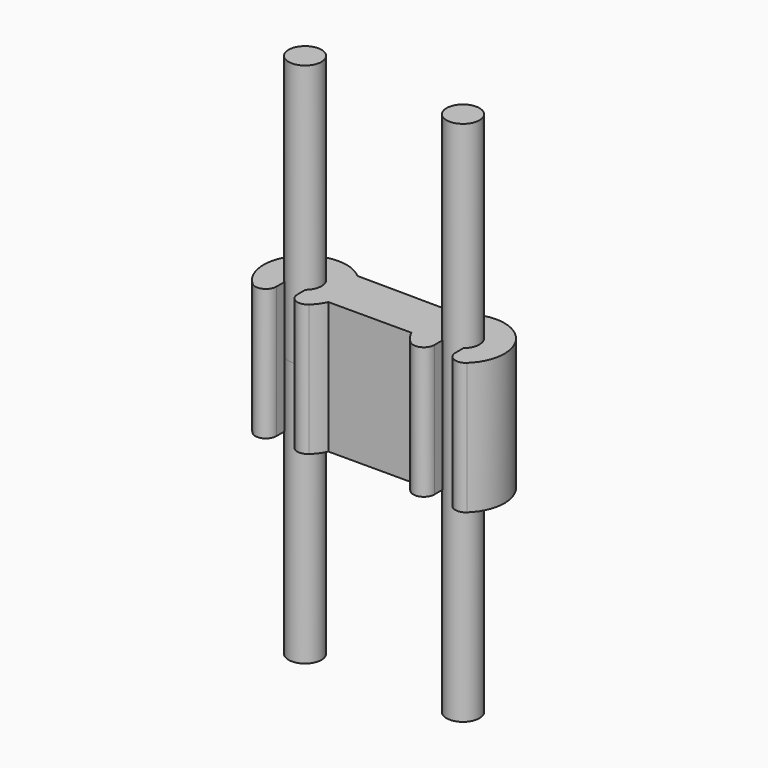
from build123d import *

# Parameters (mm, degrees)
F0_R     = 1.25
F1_DEPTH = 20
F3_DEPTH = 5
F4_R     = 0.8


with BuildPart() as f1:
    # F0 (on Top) → F1 (new body, symmetric)
    with BuildSketch(Plane.XY):
        Circle(F0_R)
        with Locations((12, 0)):
            Circle(F0_R)
    extrude(amount=F1_DEPTH, both=True)


with BuildPart() as f3:
    # F2 (on Top) → F3 (new body, symmetric)
    with BuildSketch(Plane.XY):
        with BuildLine():
            ThreePointArc((-0.8, -0.960469), (-0.53033, 1.131923), (1.25, 0))
            ThreePointArc((1.25, 0), (1.131923, -0.53033), (0.8, -0.960469))
            Line((0.8, -0.960469), (0.8, -3.04672))
            ThreePointArc((0.8, -3.04672), (2.014822, -2.421361), (2.850566, -1.340437))
            Line((2.850566, -1.340437), (9.148695, -1.338865))
            ThreePointArc((9.148695, -1.338865), (9.98451, -2.420806), (11.2, -3.04672))
            Line((11.2, -3.04672), (11.2, -0.960469))
            ThreePointArc((11.2, -0.960469), (11.46967, 1.131923), (13.25, 0))
            ThreePointArc((13.25, 0), (13.131923, -0.53033), (12.8, -0.960469))
            Line((12.8, -0.960469), (12.8, -3.04672))
            ThreePointArc((12.8, -3.04672), (14.756461, 1.524606), (9.844408, 2.296937))
            Line((9.844408, 2.296937), (2.088377, 2.358215))
            ThreePointArc((2.088377, 2.358215), (-2.778185, 1.484652), (-0.8, -3.04672))
            Line((-0.8, -3.04672), (-0.8, -0.960469))
        make_face()
    extrude(amount=F3_DEPTH, both=True)

    # F4
    f4_edges = [f3.edges().sort_by_distance(p)[0] for p in [
        (-0.8, -3.04672, 0),
        (0.8, -3.04672, 0),
        (11.2, -3.04672, 0),
        (12.8, -3.04672, 0),
    ]]
    fillet(f4_edges, radius=F4_R)


solid = Compound([f1.part, f3.part])
